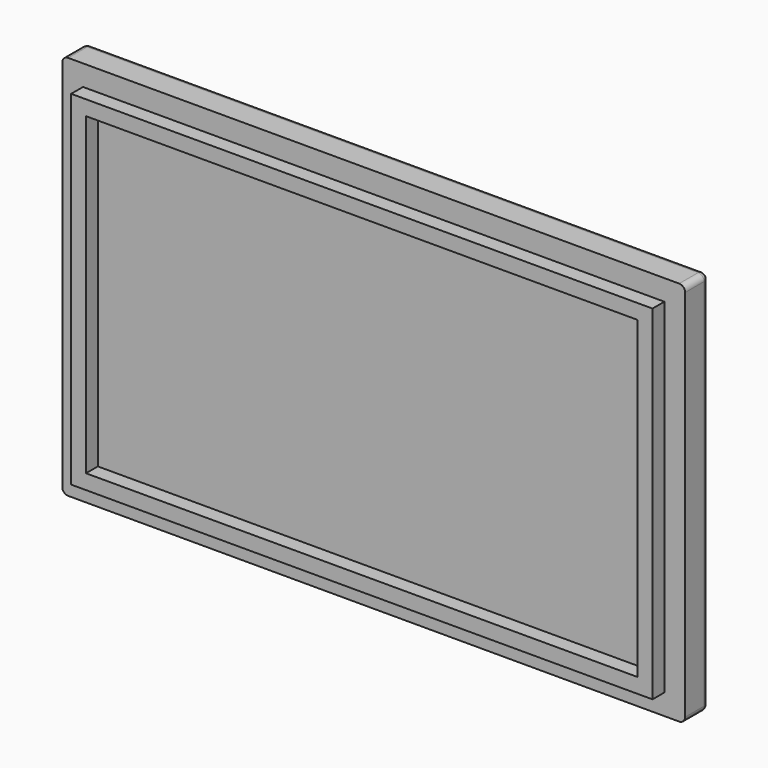
from build123d import *

# Parameters (mm, degrees)
F0_W     = 133.35
F0_H     = 82.55
F0_W_2   = 124.46
F0_H_2   = 73.66
F0_W_3   = 118.11
F0_H_3   = 67.31
F1_DEPTH = 6.35
F2_DEPTH = 9.525
F3_R     = 1.27


with BuildPart() as f1:
    # F0 (on Front) → F1 (new body)
    with BuildSketch(Plane.XZ):
        Rectangle(F0_W, F0_H)
        Rectangle(F0_W_2, F0_H_2, mode=Mode.SUBTRACT)
        Rectangle(F0_W_2, F0_H_2)
        Rectangle(F0_W_3, F0_H_3, mode=Mode.SUBTRACT)
        Rectangle(F0_W_3, F0_H_3)
    extrude(amount=F1_DEPTH)

    # F0 (on Front) → F2 (join)
    with BuildSketch(Plane.XZ):
        Rectangle(F0_W_2, F0_H_2)
        Rectangle(F0_W_3, F0_H_3, mode=Mode.SUBTRACT)
    extrude(amount=F2_DEPTH)

    # F3
    f3_edges = [f1.edges().sort_by_distance(p)[0] for p in [
        (0, 0, -41.275),
        (-66.675, 0, 0),
        (-66.675, -3.175, -41.275),
        (-66.675, -3.175, 41.275),
        (0, 0, 41.275),
        (66.675, -3.175, 41.275),
        (66.675, 0, 0),
        (66.675, -3.175, -41.275),
    ]]
    fillet(f3_edges, radius=F3_R)


solid = f1.part
